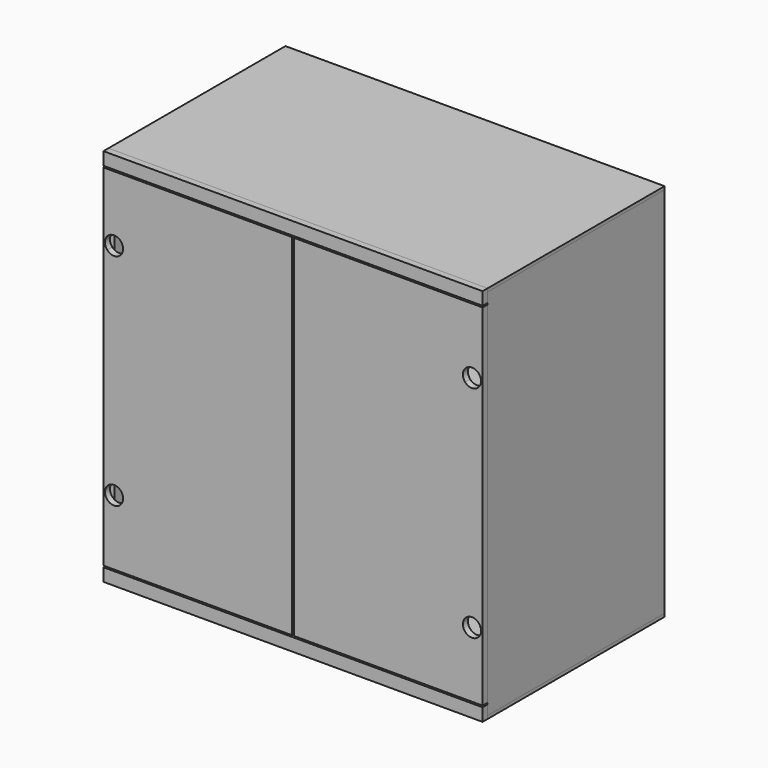
from build123d import *

# Parameters (mm, degrees)
F8_DEPTH  = 437.554
F9_DEPTH  = 437.554
F10_W     = 737.554
F10_H     = 737.554
F11_DEPTH = 12.446
F6_W      = 737.554
F6_H      = 12.446
F13_DEPTH = 437.554
F7_W      = 750
F7_H      = 25.4
F15_DEPTH = 12.446
F7_W_2    = 373
F7_H_2    = 693.2


with BuildPart() as f8:
    # F5 (on Front) → F8 (new body)
    with BuildSketch(Plane.XZ):
        Polygon((0, 750), (0, 743.777), (12.446, 743.777), (12.446, 737.554), (737.554, 737.554), (737.554, 743.777), (750, 743.777), (750, 750), align=None)
    extrude(amount=-F8_DEPTH)


with BuildPart() as f8b:
    # F5 (on Front) → F8, piece 2 (new body)
    with BuildSketch(Plane.XZ):
        Polygon((0, 6.223), (0, 0), (750, 0), (750, 6.223), (737.554, 6.223), (737.554, 12.446), (12.446, 12.446), (12.446, 6.223), align=None)
    extrude(amount=-F8_DEPTH)


with BuildPart() as f9:
    # F5 (on Front) → F9 (new body, through all)
    with BuildSketch(Plane.XZ):
        Polygon((0, 743.777), (0, 6.223), (12.446, 6.223), (12.446, 12.446), (12.446, 737.554), (12.446, 743.777), align=None)
    extrude(amount=-F9_DEPTH)


with BuildPart() as f9b:
    # F5 (on Front) → F9, piece 2 (new body, through all)
    with BuildSketch(Plane.XZ):
        Polygon((737.554, 6.223), (750, 6.223), (750, 743.777), (737.554, 743.777), (737.554, 737.554), (737.554, 12.446), align=None)
    extrude(amount=-F9_DEPTH)


with BuildPart() as f11:
    # F10 (on face) → F11 (new body)
    with BuildSketch(Plane(origin=(0, 437.554, 0), x_dir=(-1, 0, 0), z_dir=(0, 1, 0))):
        with Locations((-375, 375)):
            Rectangle(F10_W, F10_H)
    extrude(amount=-F11_DEPTH)


with BuildPart() as f8_1:
    add(f8.part)

    # F12: cut F11
    add(f11.part, mode=Mode.SUBTRACT)


with BuildPart() as f9b_1:
    add(f9b.part)

    # F12: cut F11
    add(f11.part, mode=Mode.SUBTRACT)


with BuildPart() as f9_1:
    add(f9.part)

    # F12: cut F11
    add(f11.part, mode=Mode.SUBTRACT)


with BuildPart() as f8b_1:
    add(f8b.part)

    # F12: cut F11
    add(f11.part, mode=Mode.SUBTRACT)


with BuildPart() as f13:
    # F6 (on Front) → F13 (new body)
    with BuildSketch(Plane.XZ):
        with Locations((375, 48.669)):
            Rectangle(F6_W, F6_H)
    extrude(amount=-F13_DEPTH)


with BuildPart() as f13b:
    # F6 (on Front) → F13, piece 2 (new body)
    with BuildSketch(Plane.XZ):
        with Locations((375, 238.915)):
            Rectangle(F6_W, F6_H)
    extrude(amount=-F13_DEPTH)


with BuildPart() as f13c:
    # F6 (on Front) → F13, piece 3 (new body)
    with BuildSketch(Plane.XZ):
        with Locations((375, 340.515)):
            Rectangle(F6_W, F6_H)
    extrude(amount=-F13_DEPTH)


with BuildPart() as f13d:
    # F6 (on Front) → F13, piece 4 (new body)
    with BuildSketch(Plane.XZ):
        with Locations((375, 442.115)):
            Rectangle(F6_W, F6_H)
    extrude(amount=-F13_DEPTH)


with BuildPart() as f13e:
    # F6 (on Front) → F13, piece 5 (new body)
    with BuildSketch(Plane.XZ):
        with Locations((375, 543.715)):
            Rectangle(F6_W, F6_H)
    extrude(amount=-F13_DEPTH)


with BuildPart() as f13f:
    # F6 (on Front) → F13, piece 6 (new body)
    with BuildSketch(Plane.XZ):
        with Locations((375, 645.315)):
            Rectangle(F6_W, F6_H)
    extrude(amount=-F13_DEPTH)


with BuildPart() as f9_2:
    add(f9_1.part)

    # F14: cut F13f, F13e, F13d, F13c, F13b, F13
    add(f13f.part, mode=Mode.SUBTRACT)
    add(f13e.part, mode=Mode.SUBTRACT)
    add(f13d.part, mode=Mode.SUBTRACT)
    add(f13c.part, mode=Mode.SUBTRACT)
    add(f13b.part, mode=Mode.SUBTRACT)
    add(f13.part, mode=Mode.SUBTRACT)


with BuildPart() as f9b_2:
    add(f9b_1.part)

    # F14: cut F13f, F13e, F13d, F13c, F13b, F13
    add(f13f.part, mode=Mode.SUBTRACT)
    add(f13e.part, mode=Mode.SUBTRACT)
    add(f13d.part, mode=Mode.SUBTRACT)
    add(f13c.part, mode=Mode.SUBTRACT)
    add(f13b.part, mode=Mode.SUBTRACT)
    add(f13.part, mode=Mode.SUBTRACT)


with BuildPart() as f15:
    # F7 (on Front) → F15 (new body)
    with BuildSketch(Plane.XZ):
        with Locations((375, 12.7)):
            Rectangle(F7_W, F7_H)
    extrude(amount=F15_DEPTH)


with BuildPart() as f15b:
    # F7 (on Front) → F15, piece 2 (new body)
    with BuildSketch(Plane.XZ):
        with Locations((375, 737.3)):
            Rectangle(F7_W, F7_H)
    extrude(amount=F15_DEPTH)


with BuildPart() as f15c:
    # F7 (on Front) → F15, piece 3 (new body)
    with BuildSketch(Plane.XZ):
        with Locations((186.5, 375)):
            Rectangle(F7_W_2, F7_H_2)
        with BuildLine():
            ThreePointArc((34.416407865, 169.6595549583), (37.8151024613, 164.0823525743), (39, 157.6595549583))
            ThreePointArc((39, 157.6595549583), (37.8151024613, 151.2367573424), (34.416407865, 145.6595549583))
            ThreePointArc((34.416407865, 145.6595549583), (21, 139.6595549583), (7.583592135, 145.6595549583))
            ThreePointArc((7.583592135, 145.6595549583), (3, 157.6595549583), (7.583592135, 169.6595549583))
            ThreePointArc((7.583592135, 169.6595549583), (21, 175.6595549583), (34.416407865, 169.6595549583))
        make_face(mode=Mode.SUBTRACT)
        with BuildLine():
            ThreePointArc((39, 592.3404450417), (37.8151024613, 585.9176474257), (34.416407865, 580.3404450417))
            ThreePointArc((34.416407865, 580.3404450417), (21, 574.3404450417), (7.583592135, 580.3404450417))
            ThreePointArc((7.583592135, 580.3404450417), (3, 592.3404450417), (7.583592135, 604.3404450417))
            ThreePointArc((7.583592135, 604.3404450417), (21, 610.3404450417), (34.416407865, 604.3404450417))
            ThreePointArc((34.416407865, 604.3404450417), (37.8151024613, 598.7632426576), (39, 592.3404450417))
        make_face(mode=Mode.SUBTRACT)
    extrude(amount=F15_DEPTH)


with BuildPart() as f15d:
    # F7 (on Front) → F15, piece 4 (new body)
    with BuildSketch(Plane.XZ):
        with Locations((563.5, 375)):
            Rectangle(F7_W_2, F7_H_2)
        with BuildLine():
            ThreePointArc((742.416407865, 169.6595549583), (745.8151024613, 164.0823525743), (747, 157.6595549583))
            ThreePointArc((747, 157.6595549583), (745.8151024613, 151.2367573424), (742.416407865, 145.6595549583))
            ThreePointArc((742.416407865, 145.6595549583), (729, 139.6595549583), (715.583592135, 145.6595549583))
            ThreePointArc((715.583592135, 145.6595549583), (711, 157.6595549583), (715.583592135, 169.6595549583))
            ThreePointArc((715.583592135, 169.6595549583), (729, 175.6595549583), (742.416407865, 169.6595549583))
        make_face(mode=Mode.SUBTRACT)
        with BuildLine():
            ThreePointArc((715.583592135, 604.3404450417), (729, 610.3404450417), (742.416407865, 604.3404450417))
            ThreePointArc((742.416407865, 604.3404450417), (745.8151024613, 598.7632426576), (747, 592.3404450417))
            ThreePointArc((747, 592.3404450417), (745.8151024613, 585.9176474257), (742.416407865, 580.3404450417))
            ThreePointArc((742.416407865, 580.3404450417), (729, 574.3404450417), (715.583592135, 580.3404450417))
            ThreePointArc((715.583592135, 580.3404450417), (711, 592.3404450417), (715.583592135, 604.3404450417))
        make_face(mode=Mode.SUBTRACT)
    extrude(amount=F15_DEPTH)


solid = Compound([f11.part, f8_1.part, f8b_1.part, f13.part, f13b.part, f13c.part, f13d.part, f13e.part, f13f.part, f9_2.part, f9b_2.part, f15.part, f15b.part, f15c.part, f15d.part])
